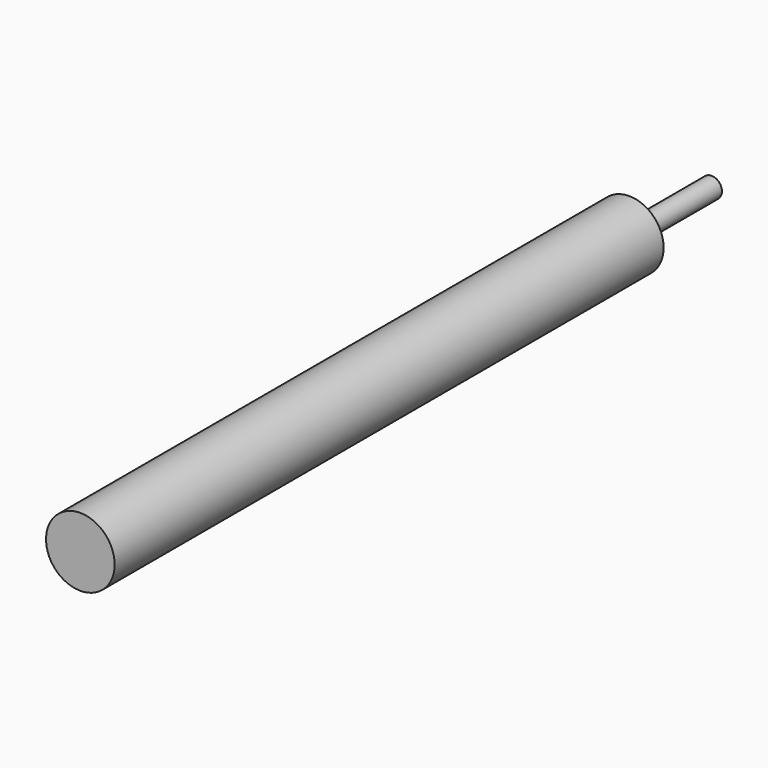
from build123d import *

# Parameters (mm, degrees)
F0_R     = 2
F1_DEPTH = 40
F2_R     = 0.6
F3_DEPTH = 6


with BuildPart() as f1:
    # F0 (on Front) → F1 (new body)
    with BuildSketch(Plane.XZ):
        Circle(F0_R)
    extrude(amount=-F1_DEPTH)

    # F2 (on face) → F3 (join)
    with BuildSketch(Plane(origin=(0, 40, 0), x_dir=(-1, 0, 0), z_dir=(0, 1, 0))):
        Circle(F2_R)
    extrude(amount=F3_DEPTH)


solid = f1.part
